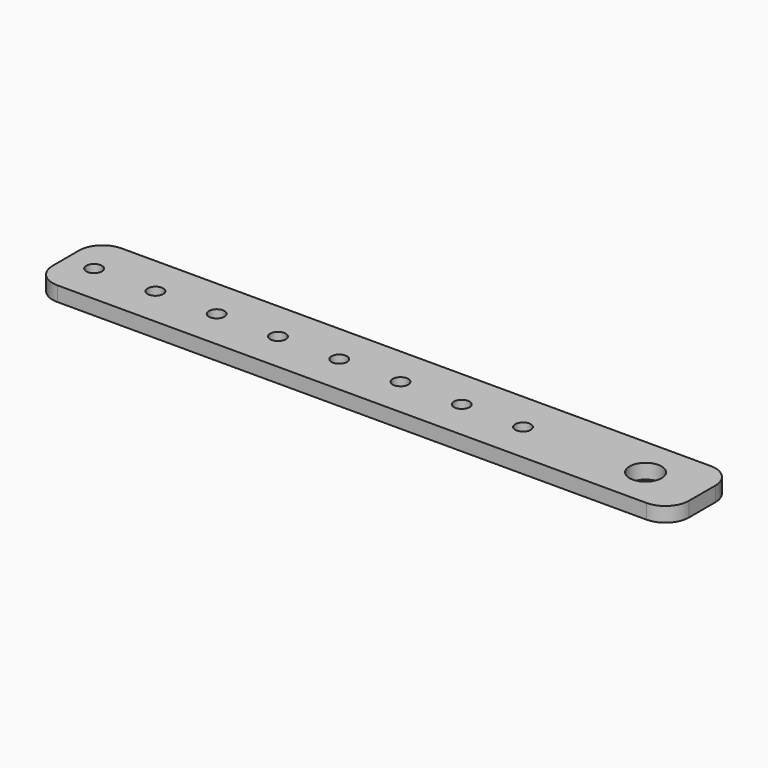
from build123d import *

# Parameters (mm, degrees)
SKETCH_W   = 135
SKETCH_H   = 17
SKETCH_R   = 1.65
SKETCH_R_2 = 3.4
PAD_DEPTH  = 3.125
FILLET_R   = 5


with BuildPart() as part:
    # Sketch → Pad (new body)
    with BuildSketch(Plane.XY):
        with Locations((61.5, 0)):
            Rectangle(SKETCH_W, SKETCH_H)
        Circle(SKETCH_R, mode=Mode.SUBTRACT)
        with Locations((13, 0)):
            Circle(SKETCH_R, mode=Mode.SUBTRACT)
        with Locations((26, 0)):
            Circle(SKETCH_R, mode=Mode.SUBTRACT)
        with Locations((39, 0)):
            Circle(SKETCH_R, mode=Mode.SUBTRACT)
        with Locations((52, 0)):
            Circle(SKETCH_R, mode=Mode.SUBTRACT)
        with Locations((65, 0)):
            Circle(SKETCH_R, mode=Mode.SUBTRACT)
        with Locations((91, 0)):
            Circle(SKETCH_R, mode=Mode.SUBTRACT)
        with Locations((78, 0)):
            Circle(SKETCH_R, mode=Mode.SUBTRACT)
        with Locations((117, 0)):
            Circle(SKETCH_R_2, mode=Mode.SUBTRACT)
    extrude(amount=PAD_DEPTH)

    # Fillet
    fillet_edges = [part.edges().sort_by_distance(p)[0] for p in [
        (-6, -8.5, 1.5625),
        (129, -8.5, 1.5625),
        (129, 8.5, 1.5625),
        (-6, 8.5, 1.5625),
    ]]
    fillet(fillet_edges, radius=FILLET_R)


solid = part.part
